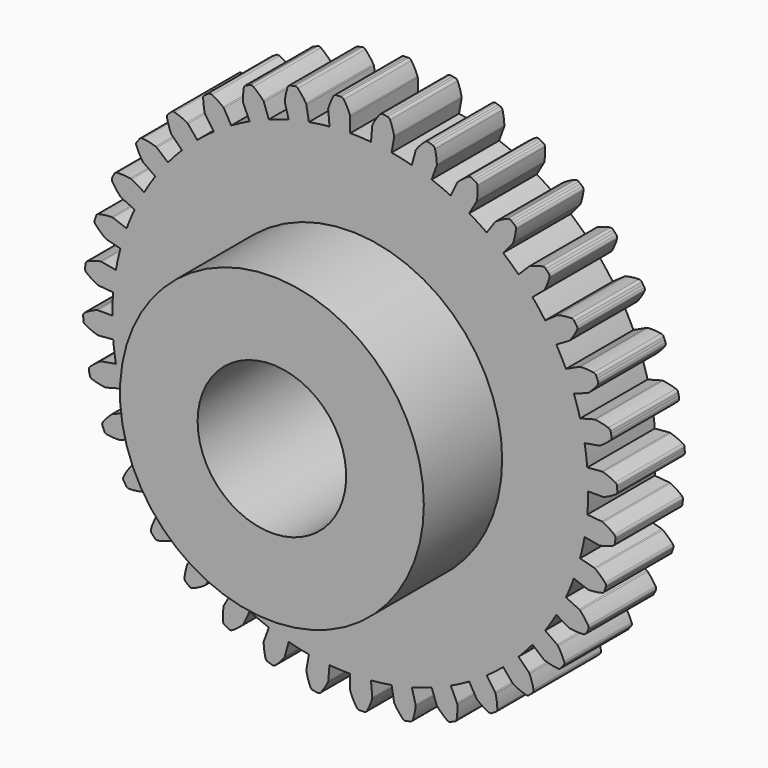
from build123d import *

# Parameters (mm, degrees)
F1_DEPTH = 6.35
F2_R     = 11.43
F3_DEPTH = 7.366
F4_R     = 5.588
F5_DEPTH = 24.83175


with BuildPart() as f1:
    # F0 (on Front) → F1 (new body)
    with BuildSketch(Plane.XZ):
        with BuildLine():
            ThreePointArc((-0.480146, 19.978756), (-0.575579, 20.063997), (-0.70046, 20.091894))
            ThreePointArc((-0.70046, 20.091894), (-0.788702, 20.088623), (-0.876929, 20.084965))
            ThreePointArc((-0.876929, 20.084965), (-0.965138, 20.08092), (-1.053329, 20.076487))
            ThreePointArc((-1.053329, 20.076487), (-1.175304, 20.037812), (-1.262945, 19.944579))
            ThreePointArc((-1.262945, 19.944579), (-1.478972, 19.494397), (-1.646676, 19.024071))
            ThreePointArc((-1.646676, 19.024071), (-1.655867, 18.977719), (-1.656201, 18.930465))
            Line((-1.656201, 18.930465), (-1.560188, 17.833025))
            ThreePointArc((-1.560188, 17.833025), (-0.780837, 17.884107), (0, 17.901144))
            Line((0, 17.901144), (0, 19.002172))
            ThreePointArc((0, 19.002172), (-0.00451, 19.049827), (-0.017882, 19.095789))
            ThreePointArc((-0.017882, 19.095789), (-0.225853, 19.549398), (-0.480146, 19.978756))
        make_face()
        with BuildLine():
            ThreePointArc((1.560188, 17.833025), (0.780837, 17.884107), (0, 17.901144))
            ThreePointArc((0, 17.901144), (-0.780837, 17.884107), (-1.560188, 17.833025))
            ThreePointArc((-1.560188, 17.833025), (-2.336568, 17.747998), (-3.108501, 17.629186))
            ThreePointArc((-3.108501, 17.629186), (-3.874517, 17.476816), (-4.633157, 17.291178))
            ThreePointArc((-4.633157, 17.291178), (-5.382978, 17.072625), (-6.122552, 16.821573))
            ThreePointArc((-6.122552, 16.821573), (-6.850471, 16.538501), (-7.565351, 16.223947))
            ThreePointArc((-7.565351, 16.223947), (-8.265829, 15.878509), (-8.950572, 15.502846))
            ThreePointArc((-8.950572, 15.502846), (-9.618278, 15.097672), (-10.267675, 14.663759))
            ThreePointArc((-10.267675, 14.663759), (-10.897526, 14.201933), (-11.506634, 13.713072))
            ThreePointArc((-11.506634, 13.713072), (-12.093838, 13.198108), (-12.658021, 12.658021))
            ThreePointArc((-12.658021, 12.658021), (-13.198108, 12.093838), (-13.713072, 11.506634))
            ThreePointArc((-13.713072, 11.506634), (-14.201933, 10.897526), (-14.663759, 10.267675))
            ThreePointArc((-14.663759, 10.267675), (-15.097672, 9.618278), (-15.502846, 8.950572))
            ThreePointArc((-15.502846, 8.950572), (-15.878509, 8.265829), (-16.223947, 7.565351))
            ThreePointArc((-16.223947, 7.565351), (-16.538501, 6.850471), (-16.821573, 6.122552))
            ThreePointArc((-16.821573, 6.122552), (-17.072625, 5.382978), (-17.291178, 4.633157))
            ThreePointArc((-17.291178, 4.633157), (-17.476816, 3.874517), (-17.629186, 3.108501))
            ThreePointArc((-17.629186, 3.108501), (-17.747998, 2.336568), (-17.833025, 1.560188))
            ThreePointArc((-17.833025, 1.560188), (-17.884107, 0.780837), (-17.901144, 0))
            ThreePointArc((-17.901144, 0), (-17.884107, -0.780837), (-17.833025, -1.560188))
            ThreePointArc((-17.833025, -1.560188), (-17.747998, -2.336568), (-17.629186, -3.108501))
            ThreePointArc((-17.629186, -3.108501), (-17.476816, -3.874517), (-17.291178, -4.633157))
            ThreePointArc((-17.291178, -4.633157), (-17.072625, -5.382978), (-16.821573, -6.122552))
            ThreePointArc((-16.821573, -6.122552), (-16.538501, -6.850471), (-16.223947, -7.565351))
            ThreePointArc((-16.223947, -7.565351), (-15.878509, -8.265829), (-15.502846, -8.950572))
            ThreePointArc((-15.502846, -8.950572), (-15.097672, -9.618278), (-14.663759, -10.267675))
            ThreePointArc((-14.663759, -10.267675), (-14.201933, -10.897526), (-13.713072, -11.506634))
            ThreePointArc((-13.713072, -11.506634), (-13.198108, -12.093838), (-12.658021, -12.658021))
            ThreePointArc((-12.658021, -12.658021), (-12.093838, -13.198108), (-11.506634, -13.713072))
            ThreePointArc((-11.506634, -13.713072), (-10.897526, -14.201933), (-10.267675, -14.663759))
            ThreePointArc((-10.267675, -14.663759), (-9.618278, -15.097672), (-8.950572, -15.502846))
            ThreePointArc((-8.950572, -15.502846), (-8.265829, -15.878509), (-7.565351, -16.223947))
            ThreePointArc((-7.565351, -16.223947), (-6.850471, -16.538501), (-6.122552, -16.821573))
            ThreePointArc((-6.122552, -16.821573), (-5.382978, -17.072625), (-4.633157, -17.291178))
            ThreePointArc((-4.633157, -17.291178), (-3.874517, -17.476816), (-3.108501, -17.629186))
            ThreePointArc((-3.108501, -17.629186), (-2.336568, -17.747998), (-1.560188, -17.833025))
            ThreePointArc((-1.560188, -17.833025), (-0.780837, -17.884107), (0, -17.901144))
            ThreePointArc((0, -17.901144), (0.780837, -17.884107), (1.560188, -17.833025))
            ThreePointArc((1.560188, -17.833025), (2.336568, -17.747998), (3.108501, -17.629186))
            ThreePointArc((3.108501, -17.629186), (3.874517, -17.476816), (4.633157, -17.291178))
            ThreePointArc((4.633157, -17.291178), (5.382978, -17.072625), (6.122552, -16.821573))
            ThreePointArc((6.122552, -16.821573), (6.850471, -16.538501), (7.565351, -16.223947))
            ThreePointArc((7.565351, -16.223947), (8.265829, -15.878509), (8.950572, -15.502846))
            ThreePointArc((8.950572, -15.502846), (9.618278, -15.097672), (10.267675, -14.663759))
            ThreePointArc((10.267675, -14.663759), (10.897526, -14.201933), (11.506634, -13.713072))
            ThreePointArc((11.506634, -13.713072), (12.093838, -13.198108), (12.658021, -12.658021))
            ThreePointArc((12.658021, -12.658021), (13.198108, -12.093838), (13.713072, -11.506634))
            ThreePointArc((13.713072, -11.506634), (14.201933, -10.897526), (14.663759, -10.267675))
            ThreePointArc((14.663759, -10.267675), (15.097672, -9.618278), (15.502846, -8.950572))
            ThreePointArc((15.502846, -8.950572), (15.878509, -8.265829), (16.223947, -7.565351))
            ThreePointArc((16.223947, -7.565351), (16.538501, -6.850471), (16.821573, -6.122552))
            ThreePointArc((16.821573, -6.122552), (17.072625, -5.382978), (17.291178, -4.633157))
            ThreePointArc((17.291178, -4.633157), (17.476816, -3.874517), (17.629186, -3.108501))
            ThreePointArc((17.629186, -3.108501), (17.747998, -2.336568), (17.833025, -1.560188))
            ThreePointArc((17.833025, -1.560188), (17.884107, -0.780837), (17.901144, 0))
            ThreePointArc((17.901144, 0), (17.884107, 0.780837), (17.833025, 1.560188))
            ThreePointArc((17.833025, 1.560188), (17.747998, 2.336568), (17.629186, 3.108501))
            ThreePointArc((17.629186, 3.108501), (17.476816, 3.874517), (17.291178, 4.633157))
            ThreePointArc((17.291178, 4.633157), (17.072625, 5.382978), (16.821573, 6.122552))
            ThreePointArc((16.821573, 6.122552), (16.538501, 6.850471), (16.223947, 7.565351))
            ThreePointArc((16.223947, 7.565351), (15.878509, 8.265829), (15.502846, 8.950572))
            ThreePointArc((15.502846, 8.950572), (15.097672, 9.618278), (14.663759, 10.267675))
            ThreePointArc((14.663759, 10.267675), (14.201933, 10.897526), (13.713072, 11.506634))
            ThreePointArc((13.713072, 11.506634), (13.198108, 12.093838), (12.658021, 12.658021))
            ThreePointArc((12.658021, 12.658021), (12.093838, 13.198108), (11.506634, 13.713072))
            ThreePointArc((11.506634, 13.713072), (10.897526, 14.201933), (10.267675, 14.663759))
            ThreePointArc((10.267675, 14.663759), (9.618278, 15.097672), (8.950572, 15.502846))
            ThreePointArc((8.950572, 15.502846), (8.265829, 15.878509), (7.565351, 16.223947))
            ThreePointArc((7.565351, 16.223947), (6.850471, 16.538501), (6.122552, 16.821573))
            ThreePointArc((6.122552, 16.821573), (5.382978, 17.072625), (4.633157, 17.291178))
            ThreePointArc((4.633157, 17.291178), (3.874517, 17.476816), (3.108501, 17.629186))
            ThreePointArc((3.108501, 17.629186), (2.336568, 17.747998), (1.560188, 17.833025))
        make_face()
        with BuildLine():
            Line((1.656201, 18.930465), (1.560188, 17.833025))
            ThreePointArc((1.560188, 17.833025), (2.336568, 17.747998), (3.108501, 17.629186))
            Line((3.108501, 17.629186), (3.299693, 18.713486))
            ThreePointArc((3.299693, 18.713486), (3.303526, 18.7612), (3.298339, 18.808786))
            ThreePointArc((3.298339, 18.808786), (3.172296, 19.291618), (2.996423, 19.758611))
            ThreePointArc((2.996423, 19.758611), (2.917242, 19.859128), (2.799102, 19.908286))
            ThreePointArc((2.799102, 19.908286), (2.711633, 19.920389), (2.624112, 19.932107))
            ThreePointArc((2.624112, 19.932107), (2.536539, 19.94344), (2.448918, 19.954389))
            ThreePointArc((2.448918, 19.954389), (2.322081, 19.937482), (2.219582, 19.860884))
            ThreePointArc((2.219582, 19.860884), (1.928664, 19.455054), (1.681836, 19.020995))
            ThreePointArc((1.681836, 19.020995), (1.664736, 18.976943), (1.656201, 18.930465))
        make_face()
        with BuildLine():
            ThreePointArc((-4.633157, 17.291178), (-3.874517, 17.476816), (-3.108501, 17.629186))
            Line((-3.108501, 17.629186), (-3.299693, 18.713486))
            ThreePointArc((-3.299693, 18.713486), (-3.31241, 18.759634), (-3.333559, 18.802576))
            ThreePointArc((-3.333559, 18.802576), (-3.617139, 19.21318), (-3.942126, 19.591858))
            ThreePointArc((-3.942126, 19.591858), (-4.050911, 19.659231), (-4.178739, 19.665019))
            ThreePointArc((-4.178739, 19.665019), (-4.265073, 19.646475), (-4.351324, 19.627553))
            ThreePointArc((-4.351324, 19.627553), (-4.437491, 19.608251), (-4.523572, 19.588571))
            ThreePointArc((-4.523572, 19.588571), (-4.636978, 19.529303), (-4.707097, 19.422268))
            ThreePointArc((-4.707097, 19.422268), (-4.841669, 18.941413), (-4.925155, 18.449111))
            ThreePointArc((-4.925155, 18.449111), (-4.926157, 18.401866), (-4.91828, 18.355272))
            Line((-4.91828, 18.355272), (-4.633157, 17.291178))
        make_face()
        with BuildLine():
            Line((4.91828, 18.355272), (4.633157, 17.291178))
            ThreePointArc((4.633157, 17.291178), (5.382978, 17.072625), (6.122552, 16.821573))
            Line((6.122552, 16.821573), (6.499126, 17.856201))
            ThreePointArc((6.499126, 17.856201), (6.511186, 17.902524), (6.514341, 17.950288))
            ThreePointArc((6.514341, 17.950288), (6.474056, 18.447671), (6.381948, 18.938109))
            ThreePointArc((6.381948, 18.938109), (6.321423, 19.050849), (6.213615, 19.119776))
            ThreePointArc((6.213615, 19.119776), (6.129577, 19.146883), (6.045419, 19.173621))
            ThreePointArc((6.045419, 19.173621), (5.961146, 19.199989), (5.876757, 19.225987))
            ThreePointArc((5.876757, 19.225987), (5.748911, 19.231362), (5.634668, 19.173726))
            ThreePointArc((5.634668, 19.173726), (5.277698, 18.824579), (4.959246, 18.439976))
            ThreePointArc((4.959246, 18.439976), (4.934756, 18.399562), (4.91828, 18.355272))
        make_face()
        with BuildLine():
            ThreePointArc((-7.565351, 16.223947), (-6.850471, 16.538501), (-6.122552, 16.821573))
            Line((-6.122552, 16.821573), (-6.499126, 17.856201))
            ThreePointArc((-6.499126, 17.856201), (-6.519663, 17.899439), (-6.547948, 17.938056))
            ThreePointArc((-6.547948, 17.938056), (-6.89852, 18.293179), (-7.284327, 18.60967))
            ThreePointArc((-7.284327, 18.60967), (-7.403159, 18.65713), (-7.530049, 18.640633))
            ThreePointArc((-7.530049, 18.640633), (-7.611851, 18.607379), (-7.693506, 18.573767))
            ThreePointArc((-7.693506, 18.573767), (-7.775012, 18.539796), (-7.856369, 18.505467))
            ThreePointArc((-7.856369, 18.505467), (-7.957759, 18.427407), (-8.008227, 18.309821))
            ThreePointArc((-8.008227, 18.309821), (-8.057255, 17.812903), (-8.053985, 17.313583))
            ThreePointArc((-8.053985, 17.313583), (-8.046768, 17.266882), (-8.03092, 17.222364))
            Line((-8.03092, 17.222364), (-7.565351, 16.223947))
        make_face()
        with BuildLine():
            Line((8.03092, 17.222364), (7.565351, 16.223947))
            ThreePointArc((7.565351, 16.223947), (8.265829, 15.878509), (8.950572, 15.502846))
            Line((8.950572, 15.502846), (9.501086, 16.456364))
            ThreePointArc((9.501086, 16.456364), (9.521007, 16.499889), (9.532409, 16.546379))
            ThreePointArc((9.532409, 16.546379), (9.579105, 17.043202), (9.57356, 17.542183))
            ThreePointArc((9.57356, 17.542183), (9.533532, 17.66372), (9.439331, 17.75032))
            ThreePointArc((9.439331, 17.75032), (9.361276, 17.791609), (9.28304, 17.832554))
            ThreePointArc((9.28304, 17.832554), (9.204626, 17.873156), (9.126033, 17.913413))
            ThreePointArc((9.126033, 17.913413), (9.001063, 17.940906), (8.878547, 17.903984))
            ThreePointArc((8.878547, 17.903984), (8.466371, 17.622129), (8.085972, 17.298667))
            ThreePointArc((8.085972, 17.298667), (8.054836, 17.26312), (8.03092, 17.222364))
        make_face()
        with BuildLine():
            ThreePointArc((-10.267675, 14.663759), (-9.618278, 15.097672), (-8.950572, 15.502846))
            Line((-8.950572, 15.502846), (-9.501086, 16.456364))
            ThreePointArc((-9.501086, 16.456364), (-9.52882, 16.495379), (-9.56338, 16.528498))
            ThreePointArc((-9.56338, 16.528498), (-9.970293, 16.817349), (-10.405197, 17.062038))
            ThreePointArc((-10.405197, 17.062038), (-10.530465, 17.088141), (-10.652563, 17.04986))
            ThreePointArc((-10.652563, 17.04986), (-10.727347, 17.002907), (-10.801925, 16.955626))
            ThreePointArc((-10.801925, 16.955626), (-10.876294, 16.908018), (-10.950454, 16.860083))
            ThreePointArc((-10.950454, 16.860083), (-11.036749, 16.765603), (-11.066031, 16.641039))
            ThreePointArc((-11.066031, 16.641039), (-11.028026, 16.143157), (-10.938099, 15.651991))
            ThreePointArc((-10.938099, 15.651991), (-10.922882, 15.607253), (-10.899544, 15.566163))
            Line((-10.899544, 15.566163), (-10.267675, 14.663759))
        make_face()
        with BuildLine():
            Line((10.899544, 15.566163), (10.267675, 14.663759))
            ThreePointArc((10.267675, 14.663759), (10.897526, 14.201933), (11.506634, 13.713072))
            Line((11.506634, 13.713072), (12.214361, 14.556508))
            ThreePointArc((12.214361, 14.556508), (12.241537, 14.595913), (12.260838, 14.639717))
            ThreePointArc((12.260838, 14.639717), (12.393098, 15.120883), (12.474284, 15.613247))
            ThreePointArc((12.474284, 15.613247), (12.455969, 15.739888), (12.378237, 15.84153))
            ThreePointArc((12.378237, 15.84153), (12.308537, 15.895746), (12.238601, 15.949655))
            ThreePointArc((12.238601, 15.949655), (12.168428, 16.003256), (12.09802, 16.056548))
            ThreePointArc((12.09802, 16.056548), (11.979723, 16.105325), (11.852656, 16.090239))
            ThreePointArc((11.852656, 16.090239), (11.397799, 15.884239), (10.96701, 15.631747))
            ThreePointArc((10.96701, 15.631747), (10.930175, 15.602147), (10.899544, 15.566163))
        make_face()
        with BuildLine():
            ThreePointArc((-12.658021, 12.658021), (-12.093838, 13.198108), (-11.506634, 13.713072))
            Line((-11.506634, 13.713072), (-12.214361, 14.556508))
            ThreePointArc((-12.214361, 14.556508), (-12.248448, 14.590115), (-12.288235, 14.616729))
            ThreePointArc((-12.288235, 14.616729), (-12.739124, 14.830533), (-13.20991, 14.995983))
            ThreePointArc((-13.20991, 14.995983), (-13.337808, 14.999938), (-13.451404, 14.941037))
            ThreePointArc((-13.451404, 14.941037), (-13.516899, 14.88181), (-13.582133, 14.822297))
            ThreePointArc((-13.582133, 14.822297), (-13.647105, 14.762498), (-13.711814, 14.702414))
            ThreePointArc((-13.711814, 14.702414), (-13.780392, 14.594384), (-13.7876, 14.466628))
            ThreePointArc((-13.7876, 14.466628), (-13.663715, 13.98291), (-13.489865, 13.514821))
            ThreePointArc((-13.489865, 13.514821), (-13.46711, 13.473405), (-13.436992, 13.436992))
            Line((-13.436992, 13.436992), (-12.658021, 12.658021))
        make_face()
        with BuildLine():
            Line((13.436992, 13.436992), (12.658021, 12.658021))
            ThreePointArc((12.658021, 12.658021), (13.198108, 12.093838), (13.713072, 11.506634))
            Line((13.713072, 11.506634), (14.556508, 12.214361))
            ThreePointArc((14.556508, 12.214361), (14.590115, 12.248448), (14.616729, 12.288235))
            ThreePointArc((14.616729, 12.288235), (14.830533, 12.739124), (14.995983, 13.20991))
            ThreePointArc((14.995983, 13.20991), (14.999938, 13.337808), (14.941037, 13.451404))
            ThreePointArc((14.941037, 13.451404), (14.88181, 13.516899), (14.822297, 13.582133))
            ThreePointArc((14.822297, 13.582133), (14.762498, 13.647105), (14.702414, 13.711814))
            ThreePointArc((14.702414, 13.711814), (14.594384, 13.780392), (14.466628, 13.7876))
            ThreePointArc((14.466628, 13.7876), (13.98291, 13.663715), (13.514821, 13.489865))
            ThreePointArc((13.514821, 13.489865), (13.473405, 13.46711), (13.436992, 13.436992))
        make_face()
        with BuildLine():
            ThreePointArc((-14.663759, 10.267675), (-14.201933, 10.897526), (-13.713072, 11.506634))
            Line((-13.713072, 11.506634), (-14.556508, 12.214361))
            ThreePointArc((-14.556508, 12.214361), (-14.595913, 12.241537), (-14.639717, 12.260838))
            ThreePointArc((-14.639717, 12.260838), (-15.120883, 12.393098), (-15.613247, 12.474284))
            ThreePointArc((-15.613247, 12.474284), (-15.739888, 12.455969), (-15.84153, 12.378237))
            ThreePointArc((-15.84153, 12.378237), (-15.895746, 12.308537), (-15.949655, 12.238601))
            ThreePointArc((-15.949655, 12.238601), (-16.003256, 12.168428), (-16.056548, 12.09802))
            ThreePointArc((-16.056548, 12.09802), (-16.105325, 11.979723), (-16.090239, 11.852656))
            ThreePointArc((-16.090239, 11.852656), (-15.884239, 11.397799), (-15.631747, 10.96701))
            ThreePointArc((-15.631747, 10.96701), (-15.602147, 10.930175), (-15.566163, 10.899544))
            Line((-15.566163, 10.899544), (-14.663759, 10.267675))
        make_face()
        with BuildLine():
            Line((15.566163, 10.899544), (14.663759, 10.267675))
            ThreePointArc((14.663759, 10.267675), (15.097672, 9.618278), (15.502846, 8.950572))
            Line((15.502846, 8.950572), (16.456364, 9.501086))
            ThreePointArc((16.456364, 9.501086), (16.495379, 9.52882), (16.528498, 9.56338))
            ThreePointArc((16.528498, 9.56338), (16.817349, 9.970293), (17.062038, 10.405197))
            ThreePointArc((17.062038, 10.405197), (17.088141, 10.530465), (17.04986, 10.652563))
            ThreePointArc((17.04986, 10.652563), (17.002907, 10.727347), (16.955626, 10.801925))
            ThreePointArc((16.955626, 10.801925), (16.908018, 10.876294), (16.860083, 10.950454))
            ThreePointArc((16.860083, 10.950454), (16.765603, 11.036749), (16.641039, 11.066031))
            ThreePointArc((16.641039, 11.066031), (16.143157, 11.028026), (15.651991, 10.938099))
            ThreePointArc((15.651991, 10.938099), (15.607253, 10.922882), (15.566163, 10.899544))
        make_face()
        with BuildLine():
            ThreePointArc((-16.223947, 7.565351), (-15.878509, 8.265829), (-15.502846, 8.950572))
            Line((-15.502846, 8.950572), (-16.456364, 9.501086))
            ThreePointArc((-16.456364, 9.501086), (-16.499889, 9.521007), (-16.546379, 9.532409))
            ThreePointArc((-16.546379, 9.532409), (-17.043202, 9.579105), (-17.542183, 9.57356))
            ThreePointArc((-17.542183, 9.57356), (-17.66372, 9.533532), (-17.75032, 9.439331))
            ThreePointArc((-17.75032, 9.439331), (-17.791609, 9.361276), (-17.832554, 9.28304))
            ThreePointArc((-17.832554, 9.28304), (-17.873156, 9.204626), (-17.913413, 9.126033))
            ThreePointArc((-17.913413, 9.126033), (-17.940906, 9.001063), (-17.903984, 8.878547))
            ThreePointArc((-17.903984, 8.878547), (-17.622129, 8.466371), (-17.298667, 8.085972))
            ThreePointArc((-17.298667, 8.085972), (-17.26312, 8.054836), (-17.222364, 8.03092))
            Line((-17.222364, 8.03092), (-16.223947, 7.565351))
        make_face()
        with BuildLine():
            Line((17.222364, 8.03092), (16.223947, 7.565351))
            ThreePointArc((16.223947, 7.565351), (16.538501, 6.850471), (16.821573, 6.122552))
            Line((16.821573, 6.122552), (17.856201, 6.499126))
            ThreePointArc((17.856201, 6.499126), (17.899439, 6.519663), (17.938056, 6.547948))
            ThreePointArc((17.938056, 6.547948), (18.293179, 6.89852), (18.60967, 7.284327))
            ThreePointArc((18.60967, 7.284327), (18.65713, 7.403159), (18.640633, 7.530049))
            ThreePointArc((18.640633, 7.530049), (18.607379, 7.611851), (18.573767, 7.693506))
            ThreePointArc((18.573767, 7.693506), (18.539796, 7.775012), (18.505467, 7.856369))
            ThreePointArc((18.505467, 7.856369), (18.427407, 7.957759), (18.309821, 8.008227))
            ThreePointArc((18.309821, 8.008227), (17.812903, 8.057255), (17.313583, 8.053985))
            ThreePointArc((17.313583, 8.053985), (17.266882, 8.046768), (17.222364, 8.03092))
        make_face()
        with BuildLine():
            ThreePointArc((-17.291178, 4.633157), (-17.072625, 5.382978), (-16.821573, 6.122552))
            Line((-16.821573, 6.122552), (-17.856201, 6.499126))
            ThreePointArc((-17.856201, 6.499126), (-17.902524, 6.511186), (-17.950288, 6.514341))
            ThreePointArc((-17.950288, 6.514341), (-18.447671, 6.474056), (-18.938109, 6.381948))
            ThreePointArc((-18.938109, 6.381948), (-19.050849, 6.321423), (-19.119776, 6.213615))
            ThreePointArc((-19.119776, 6.213615), (-19.146883, 6.129577), (-19.173621, 6.045419))
            ThreePointArc((-19.173621, 6.045419), (-19.199989, 5.961146), (-19.225987, 5.876757))
            ThreePointArc((-19.225987, 5.876757), (-19.231362, 5.748911), (-19.173726, 5.634668))
            ThreePointArc((-19.173726, 5.634668), (-18.824579, 5.277698), (-18.439976, 4.959246))
            ThreePointArc((-18.439976, 4.959246), (-18.399562, 4.934756), (-18.355272, 4.91828))
            Line((-18.355272, 4.91828), (-17.291178, 4.633157))
        make_face()
        with BuildLine():
            Line((18.355272, 4.91828), (17.291178, 4.633157))
            ThreePointArc((17.291178, 4.633157), (17.476816, 3.874517), (17.629186, 3.108501))
            Line((17.629186, 3.108501), (18.713486, 3.299693))
            ThreePointArc((18.713486, 3.299693), (18.759634, 3.31241), (18.802576, 3.333559))
            ThreePointArc((18.802576, 3.333559), (19.21318, 3.617139), (19.591858, 3.942126))
            ThreePointArc((19.591858, 3.942126), (19.659231, 4.050911), (19.665019, 4.178739))
            ThreePointArc((19.665019, 4.178739), (19.646475, 4.265073), (19.627553, 4.351324))
            ThreePointArc((19.627553, 4.351324), (19.608251, 4.437491), (19.588571, 4.523572))
            ThreePointArc((19.588571, 4.523572), (19.529303, 4.636978), (19.422268, 4.707097))
            ThreePointArc((19.422268, 4.707097), (18.941413, 4.841669), (18.449111, 4.925155))
            ThreePointArc((18.449111, 4.925155), (18.401866, 4.926157), (18.355272, 4.91828))
        make_face()
        with BuildLine():
            ThreePointArc((-17.833025, 1.560188), (-17.747998, 2.336568), (-17.629186, 3.108501))
            Line((-17.629186, 3.108501), (-18.713486, 3.299693))
            ThreePointArc((-18.713486, 3.299693), (-18.7612, 3.303526), (-18.808786, 3.298339))
            ThreePointArc((-18.808786, 3.298339), (-19.291618, 3.172296), (-19.758611, 2.996423))
            ThreePointArc((-19.758611, 2.996423), (-19.859128, 2.917242), (-19.908286, 2.799102))
            ThreePointArc((-19.908286, 2.799102), (-19.920389, 2.711633), (-19.932107, 2.624112))
            ThreePointArc((-19.932107, 2.624112), (-19.94344, 2.536539), (-19.954389, 2.448918))
            ThreePointArc((-19.954389, 2.448918), (-19.937482, 2.322081), (-19.860884, 2.219582))
            ThreePointArc((-19.860884, 2.219582), (-19.455054, 1.928664), (-19.020995, 1.681836))
            ThreePointArc((-19.020995, 1.681836), (-18.976943, 1.664736), (-18.930465, 1.656201))
            Line((-18.930465, 1.656201), (-17.833025, 1.560188))
        make_face()
        with BuildLine():
            Line((18.930465, 1.656201), (17.833025, 1.560188))
            ThreePointArc((17.833025, 1.560188), (17.884107, 0.780837), (17.901144, 0))
            Line((17.901144, 0), (19.002172, 0))
            ThreePointArc((19.002172, 0), (19.049827, 0.00451), (19.095789, 0.017882))
            ThreePointArc((19.095789, 0.017882), (19.549398, 0.225853), (19.978756, 0.480146))
            ThreePointArc((19.978756, 0.480146), (20.063997, 0.575579), (20.091894, 0.70046))
            ThreePointArc((20.091894, 0.70046), (20.088623, 0.788702), (20.084965, 0.876929))
            ThreePointArc((20.084965, 0.876929), (20.08092, 0.965138), (20.076487, 1.053329))
            ThreePointArc((20.076487, 1.053329), (20.037812, 1.175304), (19.944579, 1.262945))
            ThreePointArc((19.944579, 1.262945), (19.494397, 1.478972), (19.024071, 1.646676))
            ThreePointArc((19.024071, 1.646676), (18.977719, 1.655867), (18.930465, 1.656201))
        make_face()
        with BuildLine():
            ThreePointArc((-17.833025, -1.560188), (-17.884107, -0.780837), (-17.901144, 0))
            Line((-17.901144, 0), (-19.002172, 0))
            ThreePointArc((-19.002172, 0), (-19.049827, -0.00451), (-19.095789, -0.017882))
            ThreePointArc((-19.095789, -0.017882), (-19.549398, -0.225853), (-19.978756, -0.480146))
            ThreePointArc((-19.978756, -0.480146), (-20.063997, -0.575579), (-20.091894, -0.70046))
            ThreePointArc((-20.091894, -0.70046), (-20.088623, -0.788702), (-20.084965, -0.876929))
            ThreePointArc((-20.084965, -0.876929), (-20.08092, -0.965138), (-20.076487, -1.053329))
            ThreePointArc((-20.076487, -1.053329), (-20.037812, -1.175304), (-19.944579, -1.262945))
            ThreePointArc((-19.944579, -1.262945), (-19.494397, -1.478972), (-19.024071, -1.646676))
            ThreePointArc((-19.024071, -1.646676), (-18.977719, -1.655867), (-18.930465, -1.656201))
            Line((-18.930465, -1.656201), (-17.833025, -1.560188))
        make_face()
        with BuildLine():
            Line((18.930465, -1.656201), (17.833025, -1.560188))
            ThreePointArc((17.833025, -1.560188), (17.747998, -2.336568), (17.629186, -3.108501))
            Line((17.629186, -3.108501), (18.713486, -3.299693))
            ThreePointArc((18.713486, -3.299693), (18.7612, -3.303526), (18.808786, -3.298339))
            ThreePointArc((18.808786, -3.298339), (19.291618, -3.172296), (19.758611, -2.996423))
            ThreePointArc((19.758611, -2.996423), (19.859128, -2.917242), (19.908286, -2.799102))
            ThreePointArc((19.908286, -2.799102), (19.920389, -2.711633), (19.932107, -2.624112))
            ThreePointArc((19.932107, -2.624112), (19.94344, -2.536539), (19.954389, -2.448918))
            ThreePointArc((19.954389, -2.448918), (19.937482, -2.322081), (19.860884, -2.219582))
            ThreePointArc((19.860884, -2.219582), (19.455054, -1.928664), (19.020995, -1.681836))
            ThreePointArc((19.020995, -1.681836), (18.976943, -1.664736), (18.930465, -1.656201))
        make_face()
        with BuildLine():
            ThreePointArc((-17.291178, -4.633157), (-17.476816, -3.874517), (-17.629186, -3.108501))
            Line((-17.629186, -3.108501), (-18.713486, -3.299693))
            ThreePointArc((-18.713486, -3.299693), (-18.759634, -3.31241), (-18.802576, -3.333559))
            ThreePointArc((-18.802576, -3.333559), (-19.21318, -3.617139), (-19.591858, -3.942126))
            ThreePointArc((-19.591858, -3.942126), (-19.659231, -4.050911), (-19.665019, -4.178739))
            ThreePointArc((-19.665019, -4.178739), (-19.646475, -4.265073), (-19.627553, -4.351324))
            ThreePointArc((-19.627553, -4.351324), (-19.608251, -4.437491), (-19.588571, -4.523572))
            ThreePointArc((-19.588571, -4.523572), (-19.529303, -4.636978), (-19.422268, -4.707097))
            ThreePointArc((-19.422268, -4.707097), (-18.941413, -4.841669), (-18.449111, -4.925155))
            ThreePointArc((-18.449111, -4.925155), (-18.401866, -4.926157), (-18.355272, -4.91828))
            Line((-18.355272, -4.91828), (-17.291178, -4.633157))
        make_face()
        with BuildLine():
            Line((18.355272, -4.91828), (17.291178, -4.633157))
            ThreePointArc((17.291178, -4.633157), (17.072625, -5.382978), (16.821573, -6.122552))
            Line((16.821573, -6.122552), (17.856201, -6.499126))
            ThreePointArc((17.856201, -6.499126), (17.902524, -6.511186), (17.950288, -6.514341))
            ThreePointArc((17.950288, -6.514341), (18.447671, -6.474056), (18.938109, -6.381948))
            ThreePointArc((18.938109, -6.381948), (19.050849, -6.321423), (19.119776, -6.213615))
            ThreePointArc((19.119776, -6.213615), (19.146883, -6.129577), (19.173621, -6.045419))
            ThreePointArc((19.173621, -6.045419), (19.199989, -5.961146), (19.225987, -5.876757))
            ThreePointArc((19.225987, -5.876757), (19.231362, -5.748911), (19.173726, -5.634668))
            ThreePointArc((19.173726, -5.634668), (18.824579, -5.277698), (18.439976, -4.959246))
            ThreePointArc((18.439976, -4.959246), (18.399562, -4.934756), (18.355272, -4.91828))
        make_face()
        with BuildLine():
            ThreePointArc((-16.223947, -7.565351), (-16.538501, -6.850471), (-16.821573, -6.122552))
            Line((-16.821573, -6.122552), (-17.856201, -6.499126))
            ThreePointArc((-17.856201, -6.499126), (-17.899439, -6.519663), (-17.938056, -6.547948))
            ThreePointArc((-17.938056, -6.547948), (-18.293179, -6.89852), (-18.60967, -7.284327))
            ThreePointArc((-18.60967, -7.284327), (-18.65713, -7.403159), (-18.640633, -7.530049))
            ThreePointArc((-18.640633, -7.530049), (-18.607379, -7.611851), (-18.573767, -7.693506))
            ThreePointArc((-18.573767, -7.693506), (-18.539796, -7.775012), (-18.505467, -7.856369))
            ThreePointArc((-18.505467, -7.856369), (-18.427407, -7.957759), (-18.309821, -8.008227))
            ThreePointArc((-18.309821, -8.008227), (-17.812903, -8.057255), (-17.313583, -8.053985))
            ThreePointArc((-17.313583, -8.053985), (-17.266882, -8.046768), (-17.222364, -8.03092))
            Line((-17.222364, -8.03092), (-16.223947, -7.565351))
        make_face()
        with BuildLine():
            Line((17.222364, -8.03092), (16.223947, -7.565351))
            ThreePointArc((16.223947, -7.565351), (15.878509, -8.265829), (15.502846, -8.950572))
            Line((15.502846, -8.950572), (16.456364, -9.501086))
            ThreePointArc((16.456364, -9.501086), (16.499889, -9.521007), (16.546379, -9.532409))
            ThreePointArc((16.546379, -9.532409), (17.043202, -9.579105), (17.542183, -9.57356))
            ThreePointArc((17.542183, -9.57356), (17.66372, -9.533532), (17.75032, -9.439331))
            ThreePointArc((17.75032, -9.439331), (17.791609, -9.361276), (17.832554, -9.28304))
            ThreePointArc((17.832554, -9.28304), (17.873156, -9.204626), (17.913413, -9.126033))
            ThreePointArc((17.913413, -9.126033), (17.940906, -9.001063), (17.903984, -8.878547))
            ThreePointArc((17.903984, -8.878547), (17.622129, -8.466371), (17.298667, -8.085972))
            ThreePointArc((17.298667, -8.085972), (17.26312, -8.054836), (17.222364, -8.03092))
        make_face()
        with BuildLine():
            ThreePointArc((-14.663759, -10.267675), (-15.097672, -9.618278), (-15.502846, -8.950572))
            Line((-15.502846, -8.950572), (-16.456364, -9.501086))
            ThreePointArc((-16.456364, -9.501086), (-16.495379, -9.52882), (-16.528498, -9.56338))
            ThreePointArc((-16.528498, -9.56338), (-16.817349, -9.970293), (-17.062038, -10.405197))
            ThreePointArc((-17.062038, -10.405197), (-17.088141, -10.530465), (-17.04986, -10.652563))
            ThreePointArc((-17.04986, -10.652563), (-17.002907, -10.727347), (-16.955626, -10.801925))
            ThreePointArc((-16.955626, -10.801925), (-16.908018, -10.876294), (-16.860083, -10.950454))
            ThreePointArc((-16.860083, -10.950454), (-16.765603, -11.036749), (-16.641039, -11.066031))
            ThreePointArc((-16.641039, -11.066031), (-16.143157, -11.028026), (-15.651991, -10.938099))
            ThreePointArc((-15.651991, -10.938099), (-15.607253, -10.922882), (-15.566163, -10.899544))
            Line((-15.566163, -10.899544), (-14.663759, -10.267675))
        make_face()
        with BuildLine():
            Line((15.566163, -10.899544), (14.663759, -10.267675))
            ThreePointArc((14.663759, -10.267675), (14.201933, -10.897526), (13.713072, -11.506634))
            Line((13.713072, -11.506634), (14.556508, -12.214361))
            ThreePointArc((14.556508, -12.214361), (14.595913, -12.241537), (14.639717, -12.260838))
            ThreePointArc((14.639717, -12.260838), (15.120883, -12.393098), (15.613247, -12.474284))
            ThreePointArc((15.613247, -12.474284), (15.739888, -12.455969), (15.84153, -12.378237))
            ThreePointArc((15.84153, -12.378237), (15.895746, -12.308537), (15.949655, -12.238601))
            ThreePointArc((15.949655, -12.238601), (16.003256, -12.168428), (16.056548, -12.09802))
            ThreePointArc((16.056548, -12.09802), (16.105325, -11.979723), (16.090239, -11.852656))
            ThreePointArc((16.090239, -11.852656), (15.884239, -11.397799), (15.631747, -10.96701))
            ThreePointArc((15.631747, -10.96701), (15.602147, -10.930175), (15.566163, -10.899544))
        make_face()
        with BuildLine():
            ThreePointArc((-12.658021, -12.658021), (-13.198108, -12.093838), (-13.713072, -11.506634))
            Line((-13.713072, -11.506634), (-14.556508, -12.214361))
            ThreePointArc((-14.556508, -12.214361), (-14.590115, -12.248448), (-14.616729, -12.288235))
            ThreePointArc((-14.616729, -12.288235), (-14.830533, -12.739124), (-14.995983, -13.20991))
            ThreePointArc((-14.995983, -13.20991), (-14.999938, -13.337808), (-14.941037, -13.451404))
            ThreePointArc((-14.941037, -13.451404), (-14.88181, -13.516899), (-14.822297, -13.582133))
            ThreePointArc((-14.822297, -13.582133), (-14.762498, -13.647105), (-14.702414, -13.711814))
            ThreePointArc((-14.702414, -13.711814), (-14.594384, -13.780392), (-14.466628, -13.7876))
            ThreePointArc((-14.466628, -13.7876), (-13.98291, -13.663715), (-13.514821, -13.489865))
            ThreePointArc((-13.514821, -13.489865), (-13.473405, -13.46711), (-13.436992, -13.436992))
            Line((-13.436992, -13.436992), (-12.658021, -12.658021))
        make_face()
        with BuildLine():
            Line((13.436992, -13.436992), (12.658021, -12.658021))
            ThreePointArc((12.658021, -12.658021), (12.093838, -13.198108), (11.506634, -13.713072))
            Line((11.506634, -13.713072), (12.214361, -14.556508))
            ThreePointArc((12.214361, -14.556508), (12.248448, -14.590115), (12.288235, -14.616729))
            ThreePointArc((12.288235, -14.616729), (12.739124, -14.830533), (13.20991, -14.995983))
            ThreePointArc((13.20991, -14.995983), (13.337808, -14.999938), (13.451404, -14.941037))
            ThreePointArc((13.451404, -14.941037), (13.516899, -14.88181), (13.582133, -14.822297))
            ThreePointArc((13.582133, -14.822297), (13.647105, -14.762498), (13.711814, -14.702414))
            ThreePointArc((13.711814, -14.702414), (13.780392, -14.594384), (13.7876, -14.466628))
            ThreePointArc((13.7876, -14.466628), (13.663715, -13.98291), (13.489865, -13.514821))
            ThreePointArc((13.489865, -13.514821), (13.46711, -13.473405), (13.436992, -13.436992))
        make_face()
        with BuildLine():
            ThreePointArc((-10.267675, -14.663759), (-10.897526, -14.201933), (-11.506634, -13.713072))
            Line((-11.506634, -13.713072), (-12.214361, -14.556508))
            ThreePointArc((-12.214361, -14.556508), (-12.241537, -14.595913), (-12.260838, -14.639717))
            ThreePointArc((-12.260838, -14.639717), (-12.393098, -15.120883), (-12.474284, -15.613247))
            ThreePointArc((-12.474284, -15.613247), (-12.455969, -15.739888), (-12.378237, -15.84153))
            ThreePointArc((-12.378237, -15.84153), (-12.308537, -15.895746), (-12.238601, -15.949655))
            ThreePointArc((-12.238601, -15.949655), (-12.168428, -16.003256), (-12.09802, -16.056548))
            ThreePointArc((-12.09802, -16.056548), (-11.979723, -16.105325), (-11.852656, -16.090239))
            ThreePointArc((-11.852656, -16.090239), (-11.397799, -15.884239), (-10.96701, -15.631747))
            ThreePointArc((-10.96701, -15.631747), (-10.930175, -15.602147), (-10.899544, -15.566163))
            Line((-10.899544, -15.566163), (-10.267675, -14.663759))
        make_face()
        with BuildLine():
            Line((10.899544, -15.566163), (10.267675, -14.663759))
            ThreePointArc((10.267675, -14.663759), (9.618278, -15.097672), (8.950572, -15.502846))
            Line((8.950572, -15.502846), (9.501086, -16.456364))
            ThreePointArc((9.501086, -16.456364), (9.52882, -16.495379), (9.56338, -16.528498))
            ThreePointArc((9.56338, -16.528498), (9.970293, -16.817349), (10.405197, -17.062038))
            ThreePointArc((10.405197, -17.062038), (10.530465, -17.088141), (10.652563, -17.04986))
            ThreePointArc((10.652563, -17.04986), (10.727347, -17.002907), (10.801925, -16.955626))
            ThreePointArc((10.801925, -16.955626), (10.876294, -16.908018), (10.950454, -16.860083))
            ThreePointArc((10.950454, -16.860083), (11.036749, -16.765603), (11.066031, -16.641039))
            ThreePointArc((11.066031, -16.641039), (11.028026, -16.143157), (10.938099, -15.651991))
            ThreePointArc((10.938099, -15.651991), (10.922882, -15.607253), (10.899544, -15.566163))
        make_face()
        with BuildLine():
            ThreePointArc((-7.565351, -16.223947), (-8.265829, -15.878509), (-8.950572, -15.502846))
            Line((-8.950572, -15.502846), (-9.501086, -16.456364))
            ThreePointArc((-9.501086, -16.456364), (-9.521007, -16.499889), (-9.532409, -16.546379))
            ThreePointArc((-9.532409, -16.546379), (-9.579105, -17.043202), (-9.57356, -17.542183))
            ThreePointArc((-9.57356, -17.542183), (-9.533532, -17.66372), (-9.439331, -17.75032))
            ThreePointArc((-9.439331, -17.75032), (-9.361276, -17.791609), (-9.28304, -17.832554))
            ThreePointArc((-9.28304, -17.832554), (-9.204626, -17.873156), (-9.126033, -17.913413))
            ThreePointArc((-9.126033, -17.913413), (-9.001063, -17.940906), (-8.878547, -17.903984))
            ThreePointArc((-8.878547, -17.903984), (-8.466371, -17.622129), (-8.085972, -17.298667))
            ThreePointArc((-8.085972, -17.298667), (-8.054836, -17.26312), (-8.03092, -17.222364))
            Line((-8.03092, -17.222364), (-7.565351, -16.223947))
        make_face()
        with BuildLine():
            Line((8.03092, -17.222364), (7.565351, -16.223947))
            ThreePointArc((7.565351, -16.223947), (6.850471, -16.538501), (6.122552, -16.821573))
            Line((6.122552, -16.821573), (6.499126, -17.856201))
            ThreePointArc((6.499126, -17.856201), (6.519663, -17.899439), (6.547948, -17.938056))
            ThreePointArc((6.547948, -17.938056), (6.89852, -18.293179), (7.284327, -18.60967))
            ThreePointArc((7.284327, -18.60967), (7.403159, -18.65713), (7.530049, -18.640633))
            ThreePointArc((7.530049, -18.640633), (7.611851, -18.607379), (7.693506, -18.573767))
            ThreePointArc((7.693506, -18.573767), (7.775012, -18.539796), (7.856369, -18.505467))
            ThreePointArc((7.856369, -18.505467), (7.957759, -18.427407), (8.008227, -18.309821))
            ThreePointArc((8.008227, -18.309821), (8.057255, -17.812903), (8.053985, -17.313583))
            ThreePointArc((8.053985, -17.313583), (8.046768, -17.266882), (8.03092, -17.222364))
        make_face()
        with BuildLine():
            ThreePointArc((-4.633157, -17.291178), (-5.382978, -17.072625), (-6.122552, -16.821573))
            Line((-6.122552, -16.821573), (-6.499126, -17.856201))
            ThreePointArc((-6.499126, -17.856201), (-6.511186, -17.902524), (-6.514341, -17.950288))
            ThreePointArc((-6.514341, -17.950288), (-6.474056, -18.447671), (-6.381948, -18.938109))
            ThreePointArc((-6.381948, -18.938109), (-6.321423, -19.050849), (-6.213615, -19.119776))
            ThreePointArc((-6.213615, -19.119776), (-6.129577, -19.146883), (-6.045419, -19.173621))
            ThreePointArc((-6.045419, -19.173621), (-5.961146, -19.199989), (-5.876757, -19.225987))
            ThreePointArc((-5.876757, -19.225987), (-5.748911, -19.231362), (-5.634668, -19.173726))
            ThreePointArc((-5.634668, -19.173726), (-5.277698, -18.824579), (-4.959246, -18.439976))
            ThreePointArc((-4.959246, -18.439976), (-4.934756, -18.399562), (-4.91828, -18.355272))
            Line((-4.91828, -18.355272), (-4.633157, -17.291178))
        make_face()
        with BuildLine():
            Line((4.91828, -18.355272), (4.633157, -17.291178))
            ThreePointArc((4.633157, -17.291178), (3.874517, -17.476816), (3.108501, -17.629186))
            Line((3.108501, -17.629186), (3.299693, -18.713486))
            ThreePointArc((3.299693, -18.713486), (3.31241, -18.759634), (3.333559, -18.802576))
            ThreePointArc((3.333559, -18.802576), (3.617139, -19.21318), (3.942126, -19.591858))
            ThreePointArc((3.942126, -19.591858), (4.050911, -19.659231), (4.178739, -19.665019))
            ThreePointArc((4.178739, -19.665019), (4.265073, -19.646475), (4.351324, -19.627553))
            ThreePointArc((4.351324, -19.627553), (4.437491, -19.608251), (4.523572, -19.588571))
            ThreePointArc((4.523572, -19.588571), (4.636978, -19.529303), (4.707097, -19.422268))
            ThreePointArc((4.707097, -19.422268), (4.841669, -18.941413), (4.925155, -18.449111))
            ThreePointArc((4.925155, -18.449111), (4.926157, -18.401866), (4.91828, -18.355272))
        make_face()
        with BuildLine():
            ThreePointArc((-1.560188, -17.833025), (-2.336568, -17.747998), (-3.108501, -17.629186))
            Line((-3.108501, -17.629186), (-3.299693, -18.713486))
            ThreePointArc((-3.299693, -18.713486), (-3.303526, -18.7612), (-3.298339, -18.808786))
            ThreePointArc((-3.298339, -18.808786), (-3.172296, -19.291618), (-2.996423, -19.758611))
            ThreePointArc((-2.996423, -19.758611), (-2.917242, -19.859128), (-2.799102, -19.908286))
            ThreePointArc((-2.799102, -19.908286), (-2.711633, -19.920389), (-2.624112, -19.932107))
            ThreePointArc((-2.624112, -19.932107), (-2.536539, -19.94344), (-2.448918, -19.954389))
            ThreePointArc((-2.448918, -19.954389), (-2.322081, -19.937482), (-2.219582, -19.860884))
            ThreePointArc((-2.219582, -19.860884), (-1.928664, -19.455054), (-1.681836, -19.020995))
            ThreePointArc((-1.681836, -19.020995), (-1.664736, -18.976943), (-1.656201, -18.930465))
            Line((-1.656201, -18.930465), (-1.560188, -17.833025))
        make_face()
        with BuildLine():
            Line((1.656201, -18.930465), (1.560188, -17.833025))
            ThreePointArc((1.560188, -17.833025), (0.780837, -17.884107), (0, -17.901144))
            Line((0, -17.901144), (0, -19.002172))
            ThreePointArc((0, -19.002172), (0.00451, -19.049827), (0.017882, -19.095789))
            ThreePointArc((0.017882, -19.095789), (0.225853, -19.549398), (0.480146, -19.978756))
            ThreePointArc((0.480146, -19.978756), (0.575579, -20.063997), (0.70046, -20.091894))
            ThreePointArc((0.70046, -20.091894), (0.788702, -20.088623), (0.876929, -20.084965))
            ThreePointArc((0.876929, -20.084965), (0.965138, -20.08092), (1.053329, -20.076487))
            ThreePointArc((1.053329, -20.076487), (1.175304, -20.037812), (1.262945, -19.944579))
            ThreePointArc((1.262945, -19.944579), (1.478972, -19.494397), (1.646676, -19.024071))
            ThreePointArc((1.646676, -19.024071), (1.655867, -18.977719), (1.656201, -18.930465))
        make_face()
        with BuildLine():
            ThreePointArc((1.560188, 17.833025), (0.780837, 17.884107), (0, 17.901144))
            ThreePointArc((0, 17.901144), (-0.780837, 17.884107), (-1.560188, 17.833025))
            ThreePointArc((-1.560188, 17.833025), (-2.336568, 17.747998), (-3.108501, 17.629186))
            ThreePointArc((-3.108501, 17.629186), (-3.874517, 17.476816), (-4.633157, 17.291178))
            ThreePointArc((-4.633157, 17.291178), (-5.382978, 17.072625), (-6.122552, 16.821573))
            ThreePointArc((-6.122552, 16.821573), (-6.850471, 16.538501), (-7.565351, 16.223947))
            ThreePointArc((-7.565351, 16.223947), (-8.265829, 15.878509), (-8.950572, 15.502846))
            ThreePointArc((-8.950572, 15.502846), (-9.618278, 15.097672), (-10.267675, 14.663759))
            ThreePointArc((-10.267675, 14.663759), (-10.897526, 14.201933), (-11.506634, 13.713072))
            ThreePointArc((-11.506634, 13.713072), (-12.093838, 13.198108), (-12.658021, 12.658021))
            ThreePointArc((-12.658021, 12.658021), (-13.198108, 12.093838), (-13.713072, 11.506634))
            ThreePointArc((-13.713072, 11.506634), (-14.201933, 10.897526), (-14.663759, 10.267675))
            ThreePointArc((-14.663759, 10.267675), (-15.097672, 9.618278), (-15.502846, 8.950572))
            ThreePointArc((-15.502846, 8.950572), (-15.878509, 8.265829), (-16.223947, 7.565351))
            ThreePointArc((-16.223947, 7.565351), (-16.538501, 6.850471), (-16.821573, 6.122552))
            ThreePointArc((-16.821573, 6.122552), (-17.072625, 5.382978), (-17.291178, 4.633157))
            ThreePointArc((-17.291178, 4.633157), (-17.476816, 3.874517), (-17.629186, 3.108501))
            ThreePointArc((-17.629186, 3.108501), (-17.747998, 2.336568), (-17.833025, 1.560188))
            ThreePointArc((-17.833025, 1.560188), (-17.884107, 0.780837), (-17.901144, 0))
            ThreePointArc((-17.901144, 0), (-17.884107, -0.780837), (-17.833025, -1.560188))
            ThreePointArc((-17.833025, -1.560188), (-17.747998, -2.336568), (-17.629186, -3.108501))
            ThreePointArc((-17.629186, -3.108501), (-17.476816, -3.874517), (-17.291178, -4.633157))
            ThreePointArc((-17.291178, -4.633157), (-17.072625, -5.382978), (-16.821573, -6.122552))
            ThreePointArc((-16.821573, -6.122552), (-16.538501, -6.850471), (-16.223947, -7.565351))
            ThreePointArc((-16.223947, -7.565351), (-15.878509, -8.265829), (-15.502846, -8.950572))
            ThreePointArc((-15.502846, -8.950572), (-15.097672, -9.618278), (-14.663759, -10.267675))
            ThreePointArc((-14.663759, -10.267675), (-14.201933, -10.897526), (-13.713072, -11.506634))
            ThreePointArc((-13.713072, -11.506634), (-13.198108, -12.093838), (-12.658021, -12.658021))
            ThreePointArc((-12.658021, -12.658021), (-12.093838, -13.198108), (-11.506634, -13.713072))
            ThreePointArc((-11.506634, -13.713072), (-10.897526, -14.201933), (-10.267675, -14.663759))
            ThreePointArc((-10.267675, -14.663759), (-9.618278, -15.097672), (-8.950572, -15.502846))
            ThreePointArc((-8.950572, -15.502846), (-8.265829, -15.878509), (-7.565351, -16.223947))
            ThreePointArc((-7.565351, -16.223947), (-6.850471, -16.538501), (-6.122552, -16.821573))
            ThreePointArc((-6.122552, -16.821573), (-5.382978, -17.072625), (-4.633157, -17.291178))
            ThreePointArc((-4.633157, -17.291178), (-3.874517, -17.476816), (-3.108501, -17.629186))
            ThreePointArc((-3.108501, -17.629186), (-2.336568, -17.747998), (-1.560188, -17.833025))
            ThreePointArc((-1.560188, -17.833025), (-0.780837, -17.884107), (0, -17.901144))
            ThreePointArc((0, -17.901144), (0.780837, -17.884107), (1.560188, -17.833025))
            ThreePointArc((1.560188, -17.833025), (2.336568, -17.747998), (3.108501, -17.629186))
            ThreePointArc((3.108501, -17.629186), (3.874517, -17.476816), (4.633157, -17.291178))
            ThreePointArc((4.633157, -17.291178), (5.382978, -17.072625), (6.122552, -16.821573))
            ThreePointArc((6.122552, -16.821573), (6.850471, -16.538501), (7.565351, -16.223947))
            ThreePointArc((7.565351, -16.223947), (8.265829, -15.878509), (8.950572, -15.502846))
            ThreePointArc((8.950572, -15.502846), (9.618278, -15.097672), (10.267675, -14.663759))
            ThreePointArc((10.267675, -14.663759), (10.897526, -14.201933), (11.506634, -13.713072))
            ThreePointArc((11.506634, -13.713072), (12.093838, -13.198108), (12.658021, -12.658021))
            ThreePointArc((12.658021, -12.658021), (13.198108, -12.093838), (13.713072, -11.506634))
            ThreePointArc((13.713072, -11.506634), (14.201933, -10.897526), (14.663759, -10.267675))
            ThreePointArc((14.663759, -10.267675), (15.097672, -9.618278), (15.502846, -8.950572))
            ThreePointArc((15.502846, -8.950572), (15.878509, -8.265829), (16.223947, -7.565351))
            ThreePointArc((16.223947, -7.565351), (16.538501, -6.850471), (16.821573, -6.122552))
            ThreePointArc((16.821573, -6.122552), (17.072625, -5.382978), (17.291178, -4.633157))
            ThreePointArc((17.291178, -4.633157), (17.476816, -3.874517), (17.629186, -3.108501))
            ThreePointArc((17.629186, -3.108501), (17.747998, -2.336568), (17.833025, -1.560188))
            ThreePointArc((17.833025, -1.560188), (17.884107, -0.780837), (17.901144, 0))
            ThreePointArc((17.901144, 0), (17.884107, 0.780837), (17.833025, 1.560188))
            ThreePointArc((17.833025, 1.560188), (17.747998, 2.336568), (17.629186, 3.108501))
            ThreePointArc((17.629186, 3.108501), (17.476816, 3.874517), (17.291178, 4.633157))
            ThreePointArc((17.291178, 4.633157), (17.072625, 5.382978), (16.821573, 6.122552))
            ThreePointArc((16.821573, 6.122552), (16.538501, 6.850471), (16.223947, 7.565351))
            ThreePointArc((16.223947, 7.565351), (15.878509, 8.265829), (15.502846, 8.950572))
            ThreePointArc((15.502846, 8.950572), (15.097672, 9.618278), (14.663759, 10.267675))
            ThreePointArc((14.663759, 10.267675), (14.201933, 10.897526), (13.713072, 11.506634))
            ThreePointArc((13.713072, 11.506634), (13.198108, 12.093838), (12.658021, 12.658021))
            ThreePointArc((12.658021, 12.658021), (12.093838, 13.198108), (11.506634, 13.713072))
            ThreePointArc((11.506634, 13.713072), (10.897526, 14.201933), (10.267675, 14.663759))
            ThreePointArc((10.267675, 14.663759), (9.618278, 15.097672), (8.950572, 15.502846))
            ThreePointArc((8.950572, 15.502846), (8.265829, 15.878509), (7.565351, 16.223947))
            ThreePointArc((7.565351, 16.223947), (6.850471, 16.538501), (6.122552, 16.821573))
            ThreePointArc((6.122552, 16.821573), (5.382978, 17.072625), (4.633157, 17.291178))
            ThreePointArc((4.633157, 17.291178), (3.874517, 17.476816), (3.108501, 17.629186))
            ThreePointArc((3.108501, 17.629186), (2.336568, 17.747998), (1.560188, 17.833025))
        make_face()
    extrude(amount=F1_DEPTH)

    # F2 (on face) → F3 (join)
    with BuildSketch(Plane.XZ.offset(6.35)):
        Circle(F2_R)
    extrude(amount=F3_DEPTH)

    # F4 (on face) → F5 (cut)
    with BuildSketch(Plane(origin=(0, 0, 0), x_dir=(-1, 0, 0), z_dir=(0, 1, 0))):
        Circle(F4_R)
    extrude(amount=-F5_DEPTH, mode=Mode.SUBTRACT)


solid = f1.part
